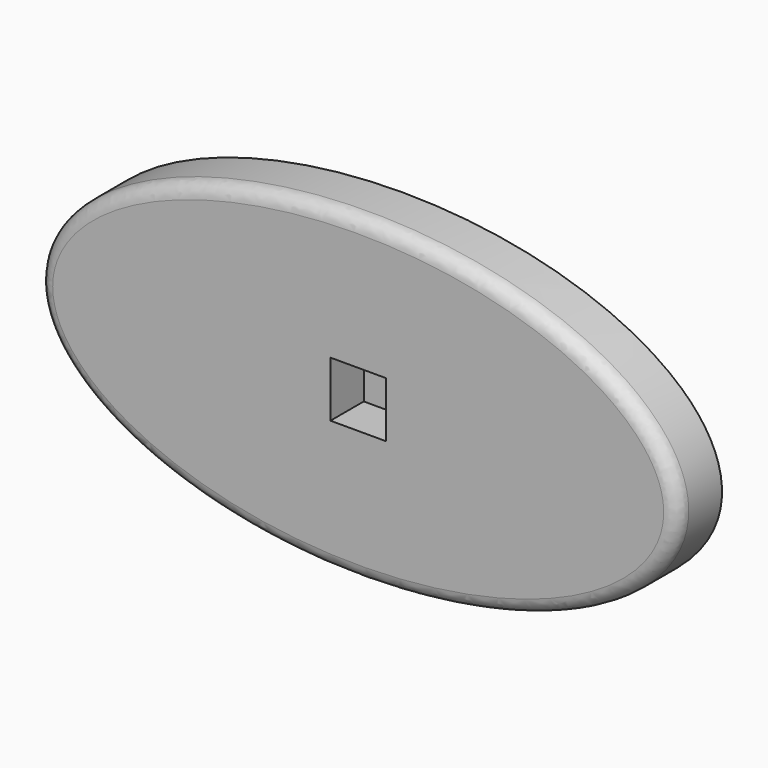
from build123d import *

# Parameters (mm, degrees)
F0_W     = 101.6
F0_H     = 101.6
F1_DEPTH = 101.6
F2_DEPTH = 25.4
F3_R     = 25.4


with BuildPart() as f1:
    # F0 (on Front) → F1 (new body)
    with BuildSketch(Plane.XZ):
        with BuildLine():
            add(Edge.make_bspline(
                [(-584.2, 0), (-584.2, -505.932041), (292.1, -252.96602), (1168.4, 0), (292.1, 252.96602), (-584.2, 505.932041), (-584.2, 0)],
                knots=[0, 0, 0, 2.094395, 2.094395, 4.18879, 4.18879, 6.283185, 6.283185, 6.283185], degree=2, weights=[1, 0.5, 1, 0.5, 1, 0.5, 1]))
        make_face()
        Rectangle(F0_W, F0_H, mode=Mode.SUBTRACT)
    extrude(amount=F1_DEPTH)

    # F0 (on Front) → F2 (join)
    with BuildSketch(Plane.XZ):
        Rectangle(F0_W, F0_H)
    extrude(amount=F2_DEPTH)

    # F3
    f3_edges = [f1.edges().sort_by_distance(p)[0] for p in [
        (584.2, -101.6, -7.2e-05),
    ]]
    fillet(f3_edges, radius=F3_R)


solid = f1.part
